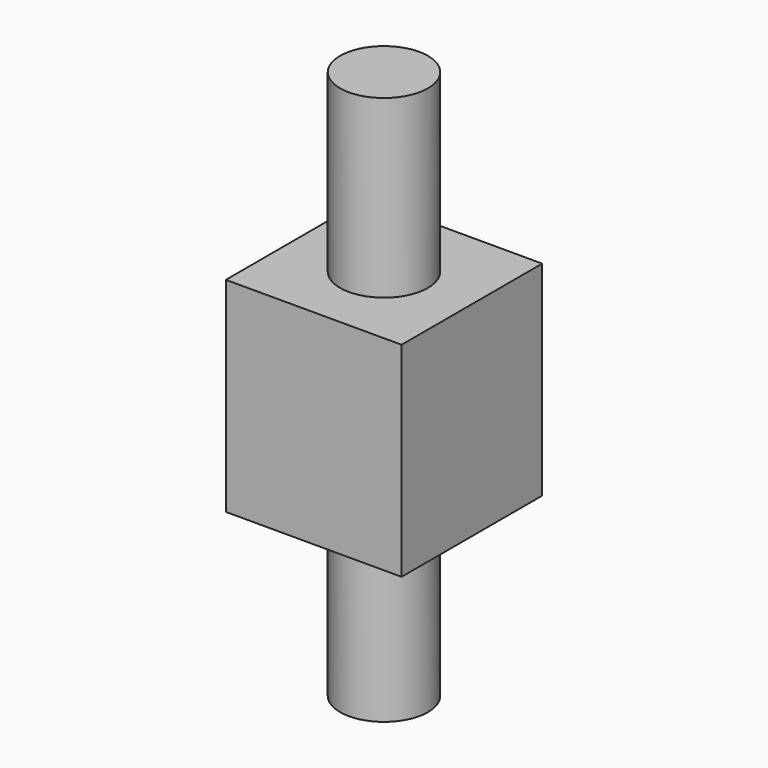
from build123d import *

# Parameters (mm, degrees)
F0_R     = 2
F1_DEPTH = 25
F3_W     = 8
F3_H     = 8
F4_DEPTH = 9.3


with BuildPart() as f1:
    # F0 (on Top) → F1 (new body)
    with BuildSketch(Plane.XY):
        Circle(F0_R)
    extrude(amount=F1_DEPTH)

    # F3 (on offset) → F4 (join)
    with BuildSketch(Plane.XY.offset(17)):
        Rectangle(F3_W, F3_H)
    extrude(amount=-F4_DEPTH)

    # F5 (on Front) → F6 (revolve)
    with BuildSketch(Plane.XZ):
        Polygon((0, 7.7), (0, 5.7), (4, 7.7), align=None)
    revolve(axis=Axis((0, 0, 6.7), (0, 0, -1)))


solid = f1.part
